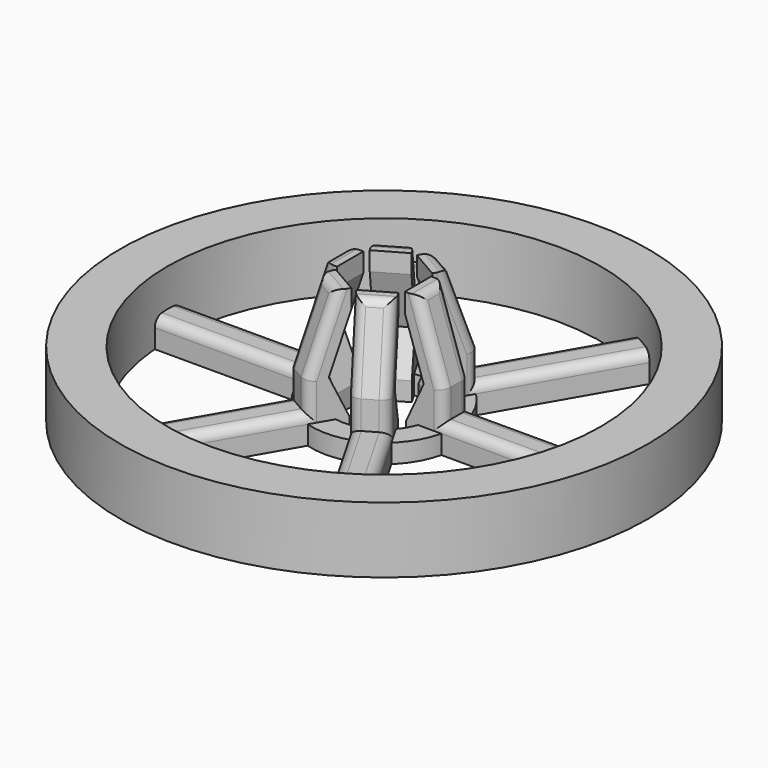
from build123d import *

# Parameters (mm, degrees)
F0_W     = 1.5358204581
F0_H     = 2
F0_W_2   = 2.3883577411
F1_DEPTH = 1.75
F2_DEPTH = 1.75
F4_R     = 1
F5_COUNT = 6


with BuildPart() as f1:
    # F0 (on Front) → F1 (new body, symmetric)
    with BuildSketch(Plane.XZ):
        with Locations((4.517910229, 1)):
            Rectangle(F0_W, F0_H)
        Polygon((5.6, 6.0168534749), (3.75, 2), (5.2858204581, 2), (7.6741781992, 2), (7.6741781992, 3), (7.6741781992, 6), (5, 14), (3.6, 14), (3.6, 12), align=None)
        with Locations((6.4799993286, 1)):
            Rectangle(F0_W_2, F0_H)
    extrude(amount=F1_DEPTH, both=True)

    # F0 (on Front) → F2 (join, symmetric)
    with BuildSketch(Plane.XZ):
        Polygon((7.6741781992, 2), (7.6741781992, 0), (23, 0), (23, 3), (7.6741781992, 3), align=None)
    extrude(amount=F2_DEPTH, both=True)

    # F4
    f4_edges = [f1.edges().sort_by_distance(p)[0] for p in [
        (15.337089, -1.75, 3),
        (15.337089, 1.75, 3),
        (7.674178, -1.75, 4.5),
        (6.337089, -1.75, 10),
        (6.337089, 1.75, 10),
        (7.674178, 1.75, 4.5),
        (5, 0, 14),
    ]]
    fillet(f4_edges, radius=F4_R)


with BuildPart() as f3:
    # F0 (on Front) → F3 (revolve)
    with BuildSketch(Plane.XZ):
        with BuildLine():
            Line((23, 3), (23, 0))
            Line((23, 0), (28, 0))
            Line((28, 0), (28, 0.3818107948))
            ThreePointArc((28, 0.3818107948), (27.4992917932, 0.8825190016), (28, 1.3832272084))
            Line((28, 1.3832272084), (28, 7))
            Line((28, 7), (23, 7))
            Line((23, 7), (23, 3))
        make_face()
        with BuildLine():
            ThreePointArc((28, 1.3832272084), (27.4992917932, 0.8825190016), (28, 0.3818107948))
            Line((28, 0.3818107948), (28, 1.3832272084))
        make_face()
    revolve(axis=Axis((0, 0, 7.6144763244), (0, 0, 1)))


with BuildPart() as f5_1:
    # F5: instance of F1
    add(f1.part.rotate(Axis((0, 0, 7.6144763244), (0, 0, 1)), 1 * 360 / F5_COUNT))


with BuildPart() as f5_2:
    # F5: instance of F1
    add(f1.part.rotate(Axis((0, 0, 7.6144763244), (0, 0, 1)), 2 * 360 / F5_COUNT))


with BuildPart() as f5_3:
    # F5: instance of F1
    add(f1.part.rotate(Axis((0, 0, 7.6144763244), (0, 0, 1)), 3 * 360 / F5_COUNT))


with BuildPart() as f5_4:
    # F5: instance of F1
    add(f1.part.rotate(Axis((0, 0, 7.6144763244), (0, 0, 1)), 4 * 360 / F5_COUNT))


with BuildPart() as f5_5:
    # F5: instance of F1
    add(f1.part.rotate(Axis((0, 0, 7.6144763244), (0, 0, 1)), 5 * 360 / F5_COUNT))


with BuildPart() as f6:
    # F0 (on Front) → F6 (revolve)
    with BuildSketch(Plane.XZ):
        with Locations((6.4799993286, 1)):
            Rectangle(F0_W_2, F0_H)
    revolve(axis=Axis((0, 0, 7.6144763244), (0, 0, 1)))


solid = Compound([f1.part, f3.part, f5_1.part, f5_2.part, f5_3.part, f5_4.part, f5_5.part, f6.part])
